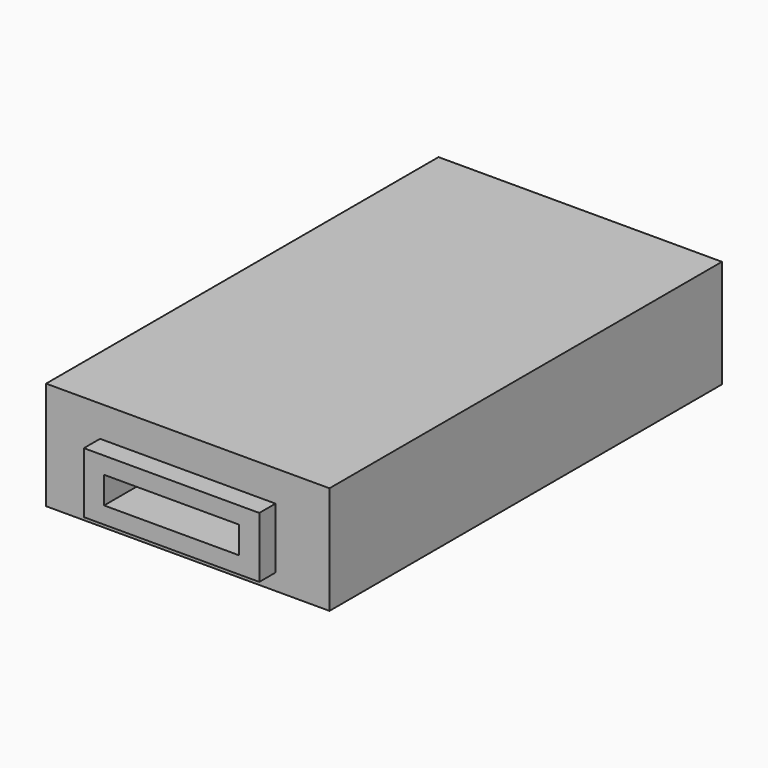
from build123d import *

# Parameters (mm, degrees)
SKETCH_W          = 42
SKETCH_H          = 16
PAD_DEPTH         = 36.35
SKETCH001_W       = 26
SKETCH001_H       = 9
PAD001_DEPTH      = 39.35
SKETCH002_W       = 20
SKETCH002_H       = 4
POCKET_DEPTH      = 39.351
POCKET_DEPTH_BACK = -39.351
SKETCH003_R       = 1.5
POCKET001_DEPTH   = 5


with BuildPart() as part:
    # Sketch → Pad (new body, symmetric)
    with BuildSketch(Plane.XZ):
        with Locations((0, 8)):
            Rectangle(SKETCH_W, SKETCH_H)
    extrude(amount=PAD_DEPTH, both=True)

    # Sketch001 → Pad001 (join, symmetric)
    with BuildSketch(Plane.XZ):
        with Locations((0, 6.9)):
            Rectangle(SKETCH001_W, SKETCH001_H)
    extrude(amount=PAD001_DEPTH, both=True)

    # Sketch002 → Pocket (cut, two sides)
    with BuildSketch(Plane.XZ) as pocket_sk:
        with Locations((0, 6.9)):
            Rectangle(SKETCH002_W, SKETCH002_H)
    extrude(amount=-POCKET_DEPTH, mode=Mode.SUBTRACT)
    extrude(pocket_sk.sketch, amount=-POCKET_DEPTH_BACK, mode=Mode.SUBTRACT)

    # Sketch003 → Pocket001 (cut)
    with BuildSketch(Plane.XY):
        with Locations((-4.5, 20)):
            Circle(SKETCH003_R)
        with Locations((4.5, 20)):
            Circle(SKETCH003_R)
        with Locations((-4.5, -20)):
            Circle(SKETCH003_R)
        with Locations((4.5, -20)):
            Circle(SKETCH003_R)
    extrude(amount=POCKET001_DEPTH, mode=Mode.SUBTRACT)


solid = part.part
